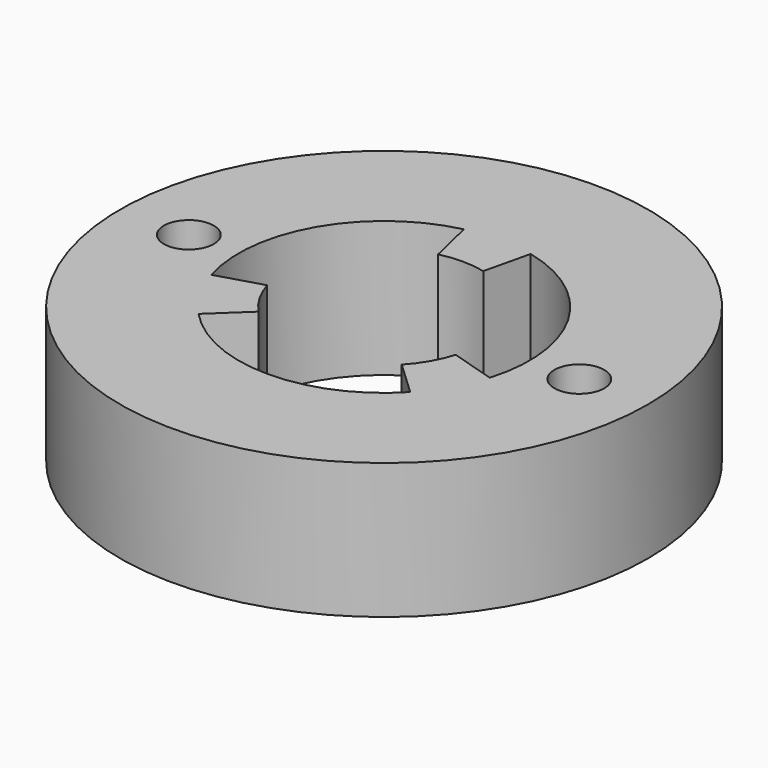
from build123d import *

# Parameters (mm, degrees)
F0_R     = 18.542
F0_R_2   = 1.7526
F1_DEPTH = 9.525


with BuildPart() as f1:
    # F0 (on Top) → F1 (new body)
    with BuildSketch(Plane.XY):
        Circle(F0_R)
        with BuildLine():
            ThreePointArc((-5.031432, -4.737986), (-5.98522, -3.455569), (-6.618932, -1.988355))
            Line((-6.618932, -1.988355), (-9.781322, -2.93835))
            ThreePointArc((-9.781322, -2.93835), (-8.844836, 5.106569), (-2.345975, 9.940049))
            Line((-2.345975, 9.940049), (-1.5875, 6.726341))
            ThreePointArc((-1.5875, 6.726341), (0, 6.911137), (1.5875, 6.726341))
            Line((1.5875, 6.726341), (2.345975, 9.940049))
            ThreePointArc((2.345975, 9.940049), (8.844836, 5.106569), (9.781322, -2.93835))
            Line((9.781322, -2.93835), (6.618932, -1.988355))
            ThreePointArc((6.618932, -1.988355), (5.98522, -3.455569), (5.031432, -4.737986))
            Line((5.031432, -4.737986), (7.435347, -7.001698))
            ThreePointArc((7.435347, -7.001698), (0, -10.213137), (-7.435347, -7.001698))
            Line((-7.435347, -7.001698), (-5.031432, -4.737986))
        make_face(mode=Mode.SUBTRACT)
        with Locations((-13.716, 0)):
            Circle(F0_R_2, mode=Mode.SUBTRACT)
        with Locations((13.716, 0)):
            Circle(F0_R_2, mode=Mode.SUBTRACT)
    extrude(amount=F1_DEPTH)


solid = f1.part
